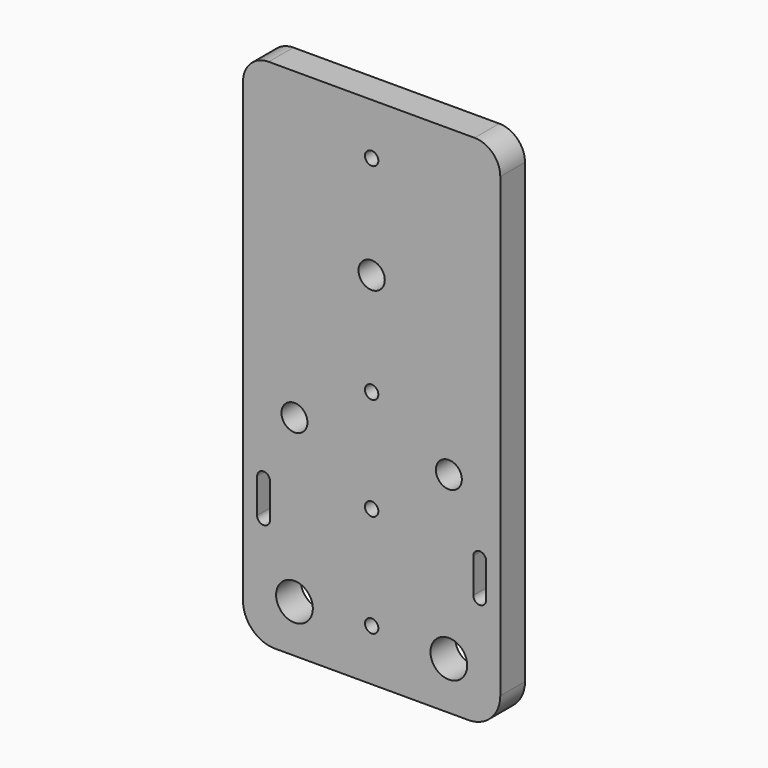
from build123d import *

# Parameters (mm, degrees)
F0_R     = 3.57
F0_R_2   = 2.525
F0_R_3   = 1.3
F0_R_4   = 2.55
F1_DEPTH = 6


with BuildPart() as f1:
    # F0 (on Front) → F1 (new body)
    with BuildSketch(Plane.XZ):
        with BuildLine():
            Line((20, 59.525), (18.83, 59.525))
            Line((18.83, 59.525), (-18.83, 59.525))
            Line((-18.83, 59.525), (-20, 59.525))
            ThreePointArc((-20, 59.525), (-23.535534, 58.060534), (-25, 54.525))
            Line((-25, 54.525), (-25, 50.695))
            Line((-25, 50.695), (-25, -34.305))
            ThreePointArc((-25, -34.305), (-23.192849, -38.667849), (-18.83, -40.475))
            Line((-18.83, -40.475), (18.83, -40.475))
            ThreePointArc((18.83, -40.475), (23.192849, -38.667849), (25, -34.305))
            Line((25, -34.305), (25, 50.695))
            Line((25, 50.695), (25, 54.525))
            ThreePointArc((25, 54.525), (23.535534, 58.060534), (20, 59.525))
        make_face()
        with Locations((-15, -31.225)):
            Circle(F0_R, mode=Mode.SUBTRACT)
        with BuildLine():
            Line((-19.755, -12.125), (-19.755, -18.825))
            ThreePointArc((-19.755, -18.825), (-21.005, -20.075), (-22.255, -18.825))
            Line((-22.255, -18.825), (-22.255, -12.125))
            ThreePointArc((-22.255, -12.125), (-21.005, -10.875), (-19.755, -12.125))
        make_face(mode=Mode.SUBTRACT)
        with Locations((-15, 0.275)):
            Circle(F0_R_2, mode=Mode.SUBTRACT)
        with Locations((0, -30.475)):
            Circle(F0_R_3, mode=Mode.SUBTRACT)
        with Locations((15, -31.225)):
            Circle(F0_R, mode=Mode.SUBTRACT)
        with Locations((0, -10.475)):
            Circle(F0_R_3, mode=Mode.SUBTRACT)
        with BuildLine():
            Line((22.255, -12.125), (22.255, -18.825))
            ThreePointArc((22.255, -18.825), (21.005, -20.075), (19.755, -18.825))
            Line((19.755, -18.825), (19.755, -12.125))
            ThreePointArc((19.755, -12.125), (21.005, -10.875), (22.255, -12.125))
        make_face(mode=Mode.SUBTRACT)
        with Locations((15, 0.275)):
            Circle(F0_R_2, mode=Mode.SUBTRACT)
        with Locations((0, 9.525)):
            Circle(F0_R_3, mode=Mode.SUBTRACT)
        with Locations((0, 29.525)):
            Circle(F0_R_4, mode=Mode.SUBTRACT)
        with Locations((0, 49.525)):
            Circle(F0_R_3, mode=Mode.SUBTRACT)
    extrude(amount=F1_DEPTH)


solid = f1.part
